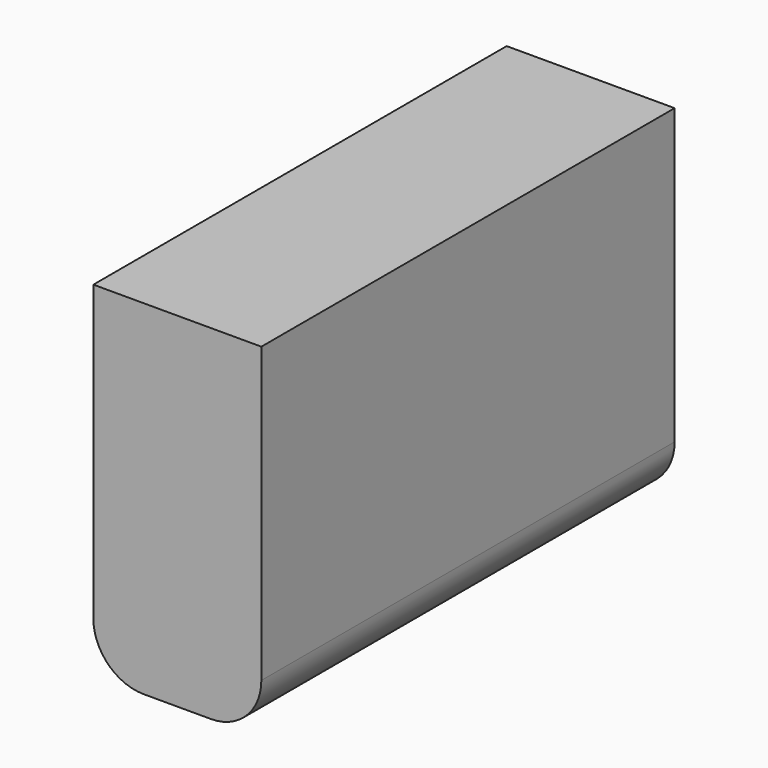
from build123d import *

# Parameters (mm, degrees)
F0_W     = 78.1140327454
F0_H     = 52.0444214344
F1_DEPTH = 25.4
F2_R     = 7.62
F3_R     = 7.62
F5_D     = 6.35
F5_DEPTH = 10.16
F5_TIP   = 1.9077324654


with BuildPart() as f1:
    # F0 (on Right) → F1 (new body)
    with BuildSketch(Plane.YZ):
        with Locations((17.5377391279, 26.0222107172)):
            Rectangle(F0_W, F0_H)
    extrude(amount=F1_DEPTH)

    # F2
    f2_edges = [f1.edges().sort_by_distance(p)[0] for p in [
        (0, 17.537739, 0),
    ]]
    fillet(f2_edges, radius=F2_R)

    # F3
    f3_edges = [f1.edges().sort_by_distance(p)[0] for p in [
        (25.4, 17.537739, 0),
    ]]
    fillet(f3_edges, radius=F3_R)

    # F5
    with Locations(Plane(origin=(0, 0, 0), x_dir=(1, 0, 0), z_dir=(0, 0, -1))):
        with Locations((12.7, -36.7818512022)):
            Hole(F5_D / 2, depth=F5_DEPTH)
            with Locations((0, 0, -(F5_DEPTH + F5_TIP / 2))):  # 118° drill point
                Cone(0, F5_D / 2, F5_TIP, mode=Mode.SUBTRACT)


solid = f1.part
